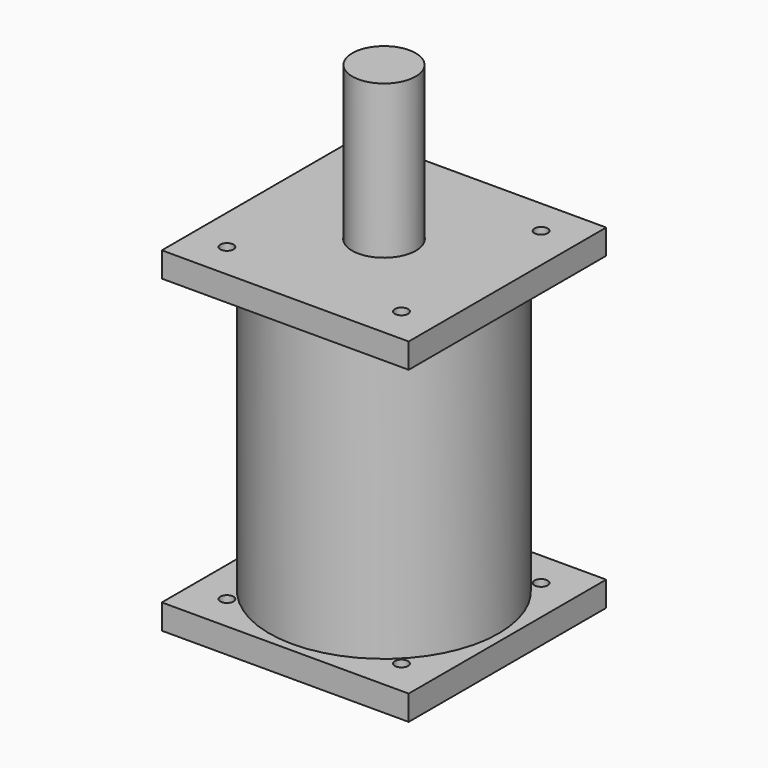
from build123d import *

# Parameters (mm, degrees)
F6_R      = 1
F4_R      = 1.765
F8_R      = 1
F10_SIZE  = 1
F1_W      = 12.7
F1_H      = 127
F12_R     = 1
F2_W      = 4.7625
F2_H      = 114.3
F15_DEPTH = 195.7610851546
F17_D     = 5.3
F17_2_D   = 5.3


with BuildPart() as f5:
    # F3 (on Front) → F5 (revolve)
    with BuildSketch(Plane.XZ):
        Polygon((41.173, 0), (0, 0), (0, -10), (41.173, -10), (41.173, -7.4), (38.1885, -7.4), (38.1885, -4.8955604434), (38.1885, -2.6), (41.173, -2.6), align=None)
    revolve(axis=Axis((0, 0, 5.924846977), (0, 0, -1)))

    # F6
    f6_edges = [f5.edges().sort_by_distance(p)[0] for p in [
        (-38.1885, 0, -7.4),
        (-38.1885, 0, -2.6),
    ]]
    fillet(f6_edges, radius=F6_R)


with BuildPart() as f5b:
    # F3 (on Front) → F5, piece 2 (revolve)
    with BuildSketch(Plane.XZ):
        with BuildLine():
            ThreePointArc((41.7185, -4.8955604434), (39.9535, -3.1305604434), (38.1885, -4.8955604434))
            ThreePointArc((38.1885, -4.8955604434), (39.9535, -6.6605604434), (41.7185, -4.8955604434))
        make_face()
    revolve(axis=Axis((0, 0, 5.924846977), (0, 0, -1)))


with BuildPart() as f7:
    # F4 (on Front) → F7 (revolve)
    with BuildSketch(Plane.XZ):
        with Locations((14.0674533322, 57.1355000138)):
            Circle(F4_R)
    revolve(axis=Axis((0, 0, 5.924846977), (0, 0, -1)))


with BuildPart() as f7b:
    # F4 (on Front) → F7, piece 2 (revolve)
    with BuildSketch(Plane.XZ):
        with BuildLine():
            ThreePointArc((35.8496, 54.2388938605), (35.5522350228, 53.2584488392), (35.8496, 52.2780038178))
            Line((35.8496, 52.2780038178), (35.8496, 54.2388938605))
        make_face()
        with BuildLine():
            Line((35.8496, 54.2388938605), (35.8496, 52.2780038178))
            ThreePointArc((35.8496, 52.2780038178), (37.8295089655, 51.5694253321), (39.0822350228, 53.2584488392))
            ThreePointArc((39.0822350228, 53.2584488392), (37.8295089655, 54.9474723463), (35.8496, 54.2388938605))
        make_face()
        with BuildLine():
            Line((41.173, 50.7399148454), (35.8496, 50.7399148454))
            Line((35.8496, 50.7399148454), (35.8496, 52.2780038178))
            ThreePointArc((35.8496, 52.2780038178), (35.5522350228, 53.2584488392), (35.8496, 54.2388938605))
            Line((35.8496, 54.2388938605), (35.8496, 55.5399148454))
            Line((35.8496, 55.5399148454), (70, 55.5399148454))
            Line((70, 55.5399148454), (70, 65.5399148454))
            Line((70, 65.5399148454), (12.8016, 65.5399148454))
            Line((12.8016, 65.5399148454), (12.8016, 59.4399148454))
            Line((12.8016, 59.4399148454), (15.9016, 59.4399148454))
            Line((15.9016, 59.4399148454), (15.9016, 54.6399148454))
            Line((15.9016, 54.6399148454), (12.8016, 54.6399148454))
            Line((12.8016, 54.6399148454), (12.8016, 48.5399148454))
            Line((12.8016, 48.5399148454), (41.173, 48.5399148454))
            Line((41.173, 48.5399148454), (41.173, 50.7399148454))
        make_face()
    revolve(axis=Axis((0, 0, 5.924846977), (0, 0, -1)))

    # F8
    f8_edges = [f7b.edges().sort_by_distance(p)[0] for p in [
        (-35.8496, 0, 55.539915),
        (-35.8496, 0, 50.739915),
    ]]
    fillet(f8_edges, radius=F8_R)

    # F12
    f12_edges = [f7b.edges().sort_by_distance(p)[0] for p in [
        (-15.9016, 0, 59.439915),
        (-15.9016, 0, 54.639915),
    ]]
    fillet(f12_edges, radius=F12_R)


with BuildPart() as f9:
    # F4 (on Front) → F9 (revolve)
    with BuildSketch(Plane.XZ):
        with BuildLine():
            Line((38.575, -57.5078456077), (38.575, -55.2123247016))
            ThreePointArc((38.575, -55.2123247016), (38.1508470988, -56.3600851546), (38.575, -57.5078456077))
        make_face()
        with BuildLine():
            ThreePointArc((41.6808470988, -56.3600851546), (40.5276599258, -54.7045157466), (38.575, -55.2123247016))
            Line((38.575, -55.2123247016), (38.575, -57.5078456077))
            ThreePointArc((38.575, -57.5078456077), (40.5276599258, -58.0156545626), (41.6808470988, -56.3600851546))
        make_face()
        with BuildLine():
            Line((41.1734, -51.7600851546), (0, -51.7600851546))
            Line((0, -51.7600851546), (0, -68.7600851546))
            Line((0, -68.7600851546), (70, -68.7600851546))
            Line((70, -68.7600851546), (70, -58.7600851546))
            Line((70, -58.7600851546), (38.575, -58.7600851546))
            Line((38.575, -58.7600851546), (38.575, -57.5078456077))
            ThreePointArc((38.575, -57.5078456077), (38.1508470988, -56.3600851546), (38.575, -55.2123247016))
            Line((38.575, -55.2123247016), (38.575, -53.9600851546))
            Line((38.575, -53.9600851546), (41.1734, -53.9600851546))
            Line((41.1734, -53.9600851546), (41.1734, -51.7600851546))
        make_face()
    revolve(axis=Axis((0, 0, 5.924846977), (0, 0, -1)))

    # F10
    f10_edges = [f9.edges().sort_by_distance(p)[0] for p in [
        (-38.575, 0, -53.960085),
        (-38.575, 0, -58.760085),
    ]]
    chamfer(f10_edges, length=F10_SIZE)


with BuildPart() as f11:
    # F1 (on Front) → F11 (revolve)
    with BuildSketch(Plane.XZ):
        with Locations((6.35, 63.5)):
            Rectangle(F1_W, F1_H)
    revolve(axis=Axis((0, 0, 5.924846977), (0, 0, -1)))


with BuildPart() as f13:
    # F2 (on Front) → F13 (revolve)
    with BuildSketch(Plane.XZ):
        with Locations((43.65625, -1.6100851546)):
            Rectangle(F2_W, F2_H)
    revolve(axis=Axis((0, 0, 5.924846977), (0, 0, -1)))


with BuildPart() as f15_tool:
    # F14 (on face) → F15 (new body, through all)
    with BuildSketch(Plane(origin=(0, 0, -68.7600851546), x_dir=(1, 0, 0), z_dir=(0, 0, -1))):
        with BuildLine():
            Line((-49.4974746831, 49.4974746831), (49.4974746831, 49.4974746831))
            ThreePointArc((49.4974746831, 49.4974746831), (0, 70), (-49.4974746831, 49.4974746831))
        make_face()
        with BuildLine():
            Line((-49.4974746831, -49.4974746831), (-49.4974746831, 49.4974746831))
            ThreePointArc((-49.4974746831, 49.4974746831), (-70, 0), (-49.4974746831, -49.4974746831))
        make_face()
        with BuildLine():
            ThreePointArc((70, 0), (64.6715672758, 26.7878402656), (49.4974746831, 49.4974746831))
            Line((49.4974746831, 49.4974746831), (49.4974746831, -49.4974746831))
            ThreePointArc((49.4974746831, -49.4974746831), (64.6715672758, -26.7878402656), (70, 0))
        make_face()
        with BuildLine():
            ThreePointArc((-49.4974746831, -49.4974746831), (0, -70), (49.4974746831, -49.4974746831))
            Line((49.4974746831, -49.4974746831), (-49.4974746831, -49.4974746831))
        make_face()
    extrude(amount=-F15_DEPTH)


with BuildPart() as f7b_1:
    add(f7b.part)

    # F15: cut by f15_tool
    add(f15_tool.part, mode=Mode.SUBTRACT)

    # F17 (through all)
    with Locations(Plane(origin=(0, 0, -68.7600851546), x_dir=(1, 0, 0), z_dir=(0, 0, -1))):
        with Locations((-35, 35), (35, 35), (35, -35), (-35, -35)):
            Hole(F17_D / 2)


with BuildPart() as f9_1:
    add(f9.part)

    # F15: cut by f15_tool
    add(f15_tool.part, mode=Mode.SUBTRACT)

    # F17#2 (through all)
    with Locations(Plane(origin=(0, 0, -68.7600851546), x_dir=(1, 0, 0), z_dir=(0, 0, -1))):
        with Locations((-35, 35), (35, 35), (35, -35), (-35, -35)):
            Hole(F17_2_D / 2)


solid = Compound([f5.part, f5b.part, f7.part, f11.part, f13.part, f7b_1.part, f9_1.part])
